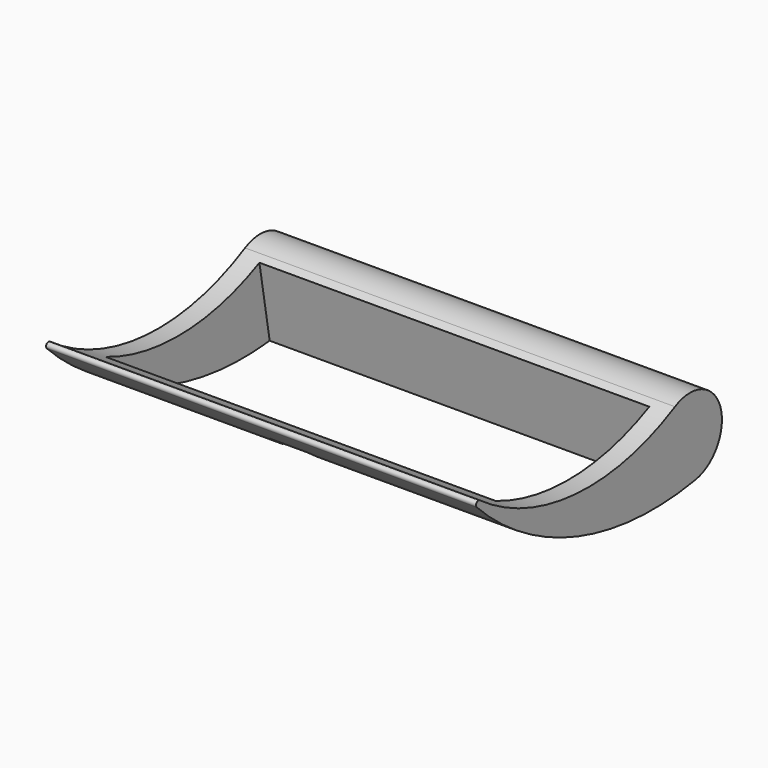
from build123d import *

# Parameters (mm, degrees)
PAD008_DEPTH    = 10.75
SKETCH049_W     = 19.5
SKETCH049_H     = 9.508905554
POCKET006_DEPTH = 6.8868250221
POCKET007_DEPTH = 1


with BuildPart() as part:
    # Sketch048 → Pad008 (new body, symmetric)
    with BuildSketch(Plane.YZ):
        with BuildLine():
            ThreePointArc((-17.570923429, -35.349067746), (-11.5889977168, -37.5087777423), (-5.3676713633, -36.1885955969))
            ThreePointArc((-4.0896315326, -39.9266740125), (-2.5394656722, -37.309157564), (-5.3676713633, -36.1885955969))
            ThreePointArc((-17.7649340088, -35.5765725595), (-11.4595142974, -39.4247858993), (-4.0896315326, -39.9266740125))
            ThreePointArc((-17.570923429, -35.349067746), (-17.7727328087, -35.3734457702), (-17.7649340088, -35.5765725595))
        make_face()
    extrude(amount=PAD008_DEPTH, both=True)

    # Sketch049 (on DatumPlane) → Pocket006 (cut, through all)
    with BuildSketch(Plane(origin=(10.75, -4.0896315326, -39.9266740125), x_dir=(1, 0, 0), z_dir=(0, 0.1711412337, -0.9852465063))):
        with Locations((-10.75, 5.754452777)):
            Rectangle(SKETCH049_W, SKETCH049_H)
    extrude(amount=-POCKET006_DEPTH, mode=Mode.SUBTRACT)

    # Sketch050 → Pocket007 (cut, symmetric)
    with BuildSketch(Plane.YZ):
        Polygon((-16.49066, -37.494777), (-15.936452, -36.755833), (-13.493837, -38.459507), (-14.520146, -39.301079), align=None)
    extrude(amount=POCKET007_DEPTH, both=True, mode=Mode.SUBTRACT)


solid = part.part
